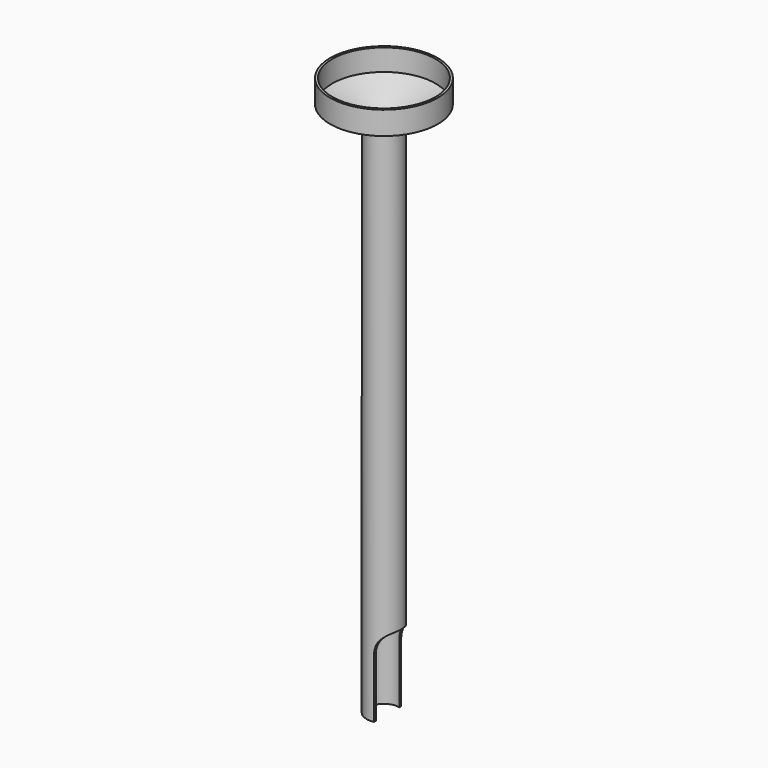
from build123d import *

# Parameters (mm, degrees)
F3_DEPTH = 63.5


with BuildPart() as f1:
    # F0 (on Front) → F1 (revolve)
    with BuildSketch(Plane.XZ):
        Polygon((-113.253824, 36.790495), (-113.253824, 84.202737), (-118.333824, 84.202737), (-118.333824, 33.402737), (-38.1, 0), (-38.1, -1143), (-33.02, -1143), (-33.02, 3.387759), align=None)
    revolve(axis=Axis((0, 0, -529.398632), (0, 0, -1)))

    # F2 (on Front) → F3 (cut, symmetric)
    with BuildSketch(Plane.XZ):
        with BuildLine():
            Line((8.060034, -1012.105305), (8.060034, -1153.510451))
            Line((8.060034, -1153.510451), (58.457147, -1153.510451))
            Line((58.457147, -1153.510451), (58.457147, -966.385305))
            Line((58.457147, -966.385305), (53.780034, -966.385305))
            ThreePointArc((53.780034, -966.385305), (21.451112, -979.776383), (8.060034, -1012.105305))
        make_face()
    extrude(amount=F3_DEPTH, both=True, mode=Mode.SUBTRACT)


solid = f1.part
